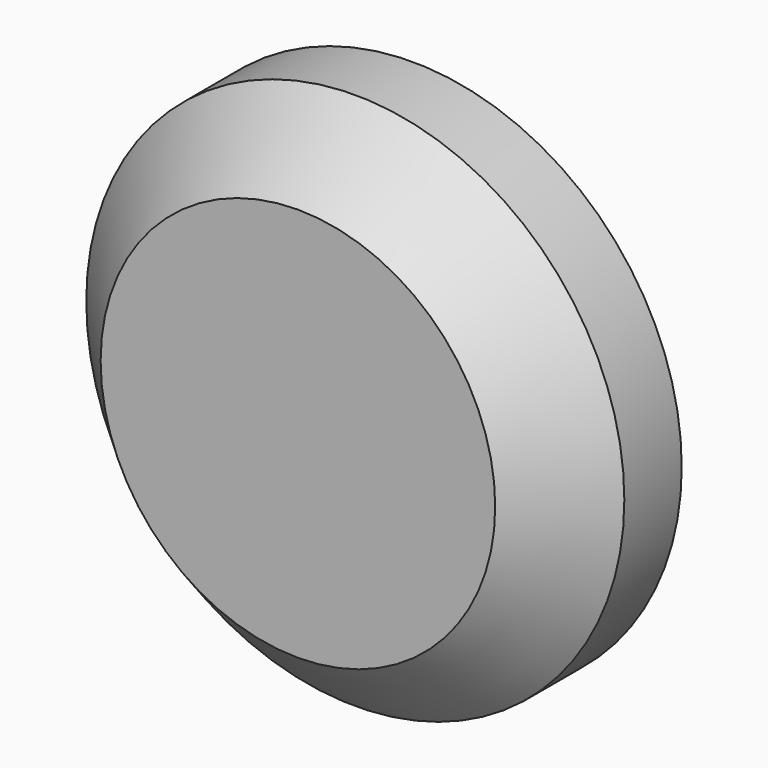
from build123d import *

# Parameters (mm, degrees)
F0_R     = 7.5
F1_DEPTH = 4
F2_R     = 4
F3_DEPTH = 2
F5_D     = 2
F5_DEPTH = 4
F5_TIP   = 0.600860619
F6_SIZE  = 2


with BuildPart() as f1:
    # F0 (on Front) → F1 (new body)
    with BuildSketch(Plane.XZ):
        Circle(F0_R)
    extrude(amount=F1_DEPTH)

    # F2 (on face) → F3 (join)
    with BuildSketch(Plane(origin=(0, 0, 0), x_dir=(-1, 0, 0), z_dir=(0, 1, 0))):
        Circle(F2_R)
    extrude(amount=F3_DEPTH)

    # F5
    with Locations(Plane(origin=(0, 2, 0), x_dir=(-1, 0, 0), z_dir=(0, 1, 0))):
        with Locations((0, 0)):
            Hole(F5_D / 2, depth=F5_DEPTH)
            with Locations((0, 0, -(F5_DEPTH + F5_TIP / 2))):  # 118° drill point
                Cone(0, F5_D / 2, F5_TIP, mode=Mode.SUBTRACT)

    # F6
    f6_edges = [f1.edges().sort_by_distance(p)[0] for p in [
        (-7.5, -4, 0),
    ]]
    chamfer(f6_edges, length=F6_SIZE)


solid = f1.part
